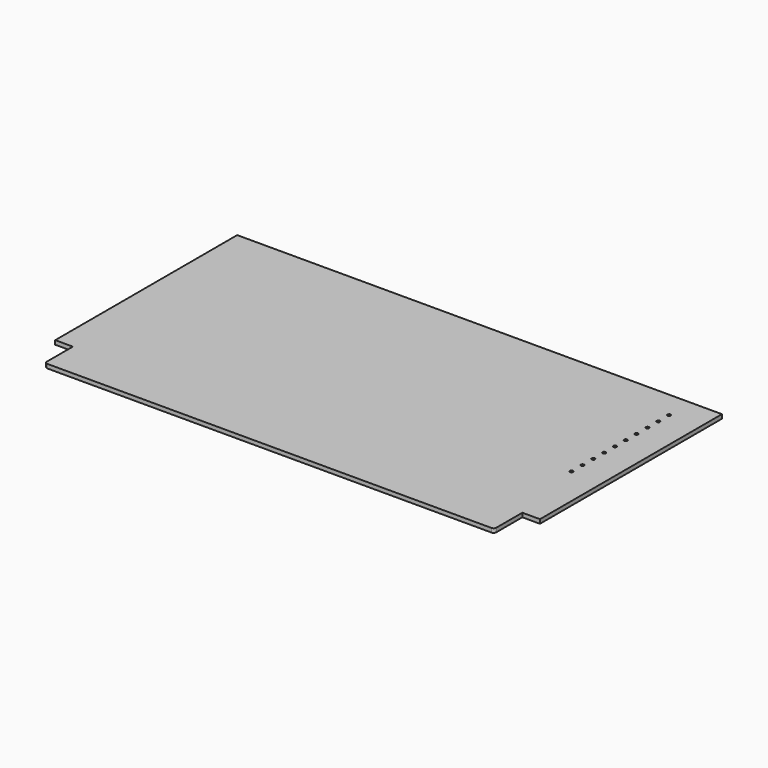
from build123d import *

# Parameters (mm, degrees)
F1_DEPTH = 1.5
F2_R     = 0.6
F3_DEPTH = 1.501


with BuildPart() as f1:
    # F0 (on Top) → F1 (new body)
    with BuildSketch(Plane.XY):
        with BuildLine():
            Line((83, -42), (-83, -42))
            Line((-83, -42), (-83, -54))
            ThreePointArc((-83, -54), (-82.707107, -54.707107), (-82, -55))
            Line((-82, -55), (82, -55))
            ThreePointArc((82, -55), (82.707107, -54.707107), (83, -54))
            Line((83, -54), (83, -42))
        make_face()
        Polygon((89.5, 42), (-89.5, 42), (-89.5, -42), (-83, -42), (83, -42), (89.5, -42), align=None)
    extrude(amount=F1_DEPTH)

    # F2 (on face) → F3 (cut, through all)
    with BuildSketch(Plane.XY.offset(1.5)):
        with Locations((78, 32)):
            Circle(F2_R)
        with Locations((78, 27)):
            Circle(F2_R)
        with Locations((78, 22)):
            Circle(F2_R)
        with Locations((78, 17)):
            Circle(F2_R)
        with Locations((78, 12)):
            Circle(F2_R)
        with Locations((78, 7)):
            Circle(F2_R)
        with Locations((78, 2)):
            Circle(F2_R)
        with Locations((78, -3)):
            Circle(F2_R)
        with Locations((78, -8)):
            Circle(F2_R)
        with Locations((78, -13)):
            Circle(F2_R)
    extrude(amount=-F3_DEPTH, mode=Mode.SUBTRACT)


solid = f1.part
